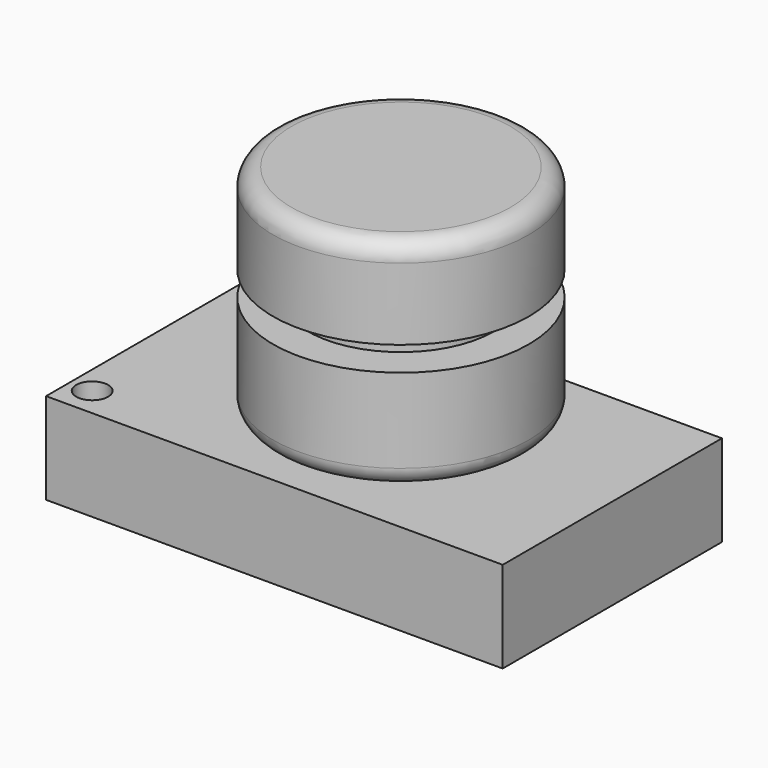
from build123d import *

# Parameters (mm, degrees)
F0_W     = 127
F0_H     = 76.2
F1_DEPTH = 25.4
F2_R     = 4.441926
F3_DEPTH = 25.401
F4_W     = 35.56
F4_H     = 60.391565
F6_W     = 9.759322
F6_H     = 6.816041
F9_R     = 5.08
F10_R    = 5.08


with BuildPart() as f1:
    # F0 (on Top) → F1 (new body)
    with BuildSketch(Plane.XY):
        with Locations((-1.797293, -3.643412)):
            Rectangle(F0_W, F0_H)
    extrude(amount=F1_DEPTH)

    # F2 (on face) → F3 (cut, through all)
    with BuildSketch(Plane.XY.offset(25.4)):
        with Locations((-59.031062, -33.551604)):
            Circle(F2_R)
    extrude(amount=-F3_DEPTH, mode=Mode.SUBTRACT)


with BuildPart() as f5:
    # F4 (on Front) → F5 (revolve)
    with BuildSketch(Plane.XZ):
        with Locations((17.78, 55.595782)):
            Rectangle(F4_W, F4_H)
    revolve(axis=Axis((0, 0, 55.595783), (0, 0, 1)))

    # F6 (on Front) → F8 (revolve, cut)
    with BuildSketch(Plane.XZ):
        with Locations((30.74963, 57.310263)):
            Rectangle(F6_W, F6_H)
    revolve(axis=Axis((0, 0, 37.291419), (0, 0, 1)), mode=Mode.SUBTRACT)

    # F9
    f9_edges = [f5.edges().sort_by_distance(p)[0] for p in [
        (-35.56, 0, 85.791565),
    ]]
    fillet(f9_edges, radius=F9_R)

    # F10
    f10_edges = [f5.edges().sort_by_distance(p)[0] for p in [
        (-35.56, 0, 25.4),
    ]]
    fillet(f10_edges, radius=F10_R)


solid = Compound([f1.part, f5.part])
